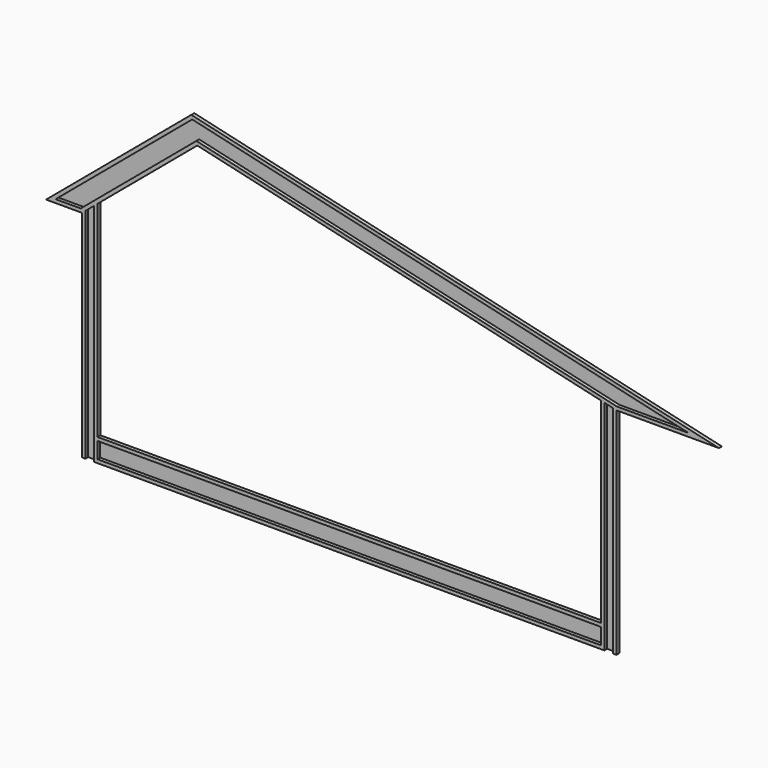
from build123d import *

# Parameters (mm, degrees)
F1_DEPTH = 3
F2_W     = 6549
F2_H     = 45
F3_DEPTH = 45


with BuildPart() as f1:
    # F0 (on Front) → F1 (new body)
    with BuildSketch(Plane.XZ):
        Polygon((6549, 0), (0, 0), (0, 2667.819926), (-200, 2500), (-200, -300), (6749, -300), (6749, 2500), (6549, 2546.173638), align=None)
        Polygon((-200, 2500), (0, 2667.819926), (1299.393745, 3758.140738), (6549, 2546.173638), (6749, 2500), (8082.623445, 2500), (1221.138163, 4084.098695), (-666.717148, 2500), align=None)
    extrude(amount=F1_DEPTH)

    # F2 (on face) → F3 (join)
    with BuildSketch(Plane.XZ.offset(3)):
        Polygon((-155, 2537.759483), (-200, 2500), (-200, -300), (-155, -300), align=None)
        Polygon((6749, -300), (6749, 2500), (6704, 2510.389069), (6704, -300), align=None)
        Polygon((-666.717148, 2500), (-596.709576, 2500), (-543.080664, 2545), (1232.8765, 4035.205002), (7687.663514, 2545), (7882.579928, 2500), (8082.623445, 2500), (1221.138163, 4084.098695), align=None)
        Polygon((-543.080664, 2545), (-596.709576, 2500), (-270.007572, 2500), (-216.378661, 2545), align=None)
        Polygon((7882.579928, 2500), (7687.663514, 2545), (6754.127102, 2545), (6949.043517, 2500), align=None)
        with Locations((3274.5, -277.5)):
            Rectangle(F2_W, F2_H)
        Polygon((0, 2667.819926), (-45, 2630.060443), (-45, -300), (0, -300), (0, -255), (0, -45), (0, 0), align=None)
        Polygon((6549, 2546.173638), (6549, 0), (6549, -45), (6549, -255), (6549, -300), (6594, -300), (6594, 2535.78457), align=None)
        Polygon((-216.378661, 2545), (-270.007572, 2500), (-200, 2500), (-155, 2537.759483), (-45, 2630.060443), (0, 2667.819926), (1299.393745, 3758.140738), (6549, 2546.173638), (6594, 2535.78457), (6704, 2510.389069), (6749, 2500), (6949.043517, 2500), (6754.127102, 2545), (1287.655408, 3807.034432), align=None)
        with Locations((3274.5, -22.5)):
            Rectangle(F2_W, F2_H)
    extrude(amount=F3_DEPTH)


solid = f1.part
